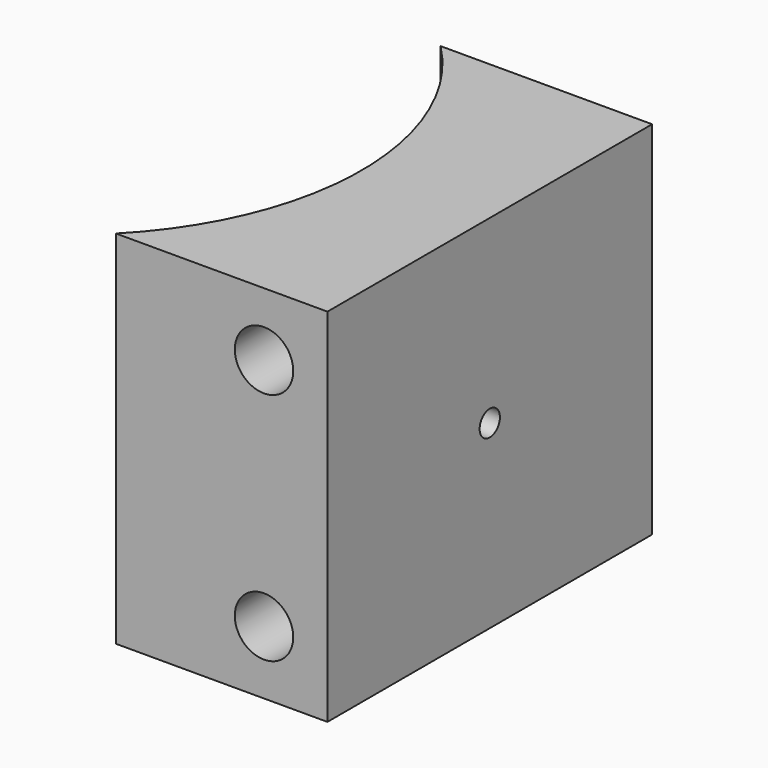
from build123d import *

# Parameters (mm, degrees)
F1_DEPTH = 22.606
F2_R     = 1.8288
F3_DEPTH = 25.4
F4_R     = 0.79375
F5_DEPTH = 9.0530042065


with BuildPart() as f1:
    # F0 (on Top) → F1 (new body)
    with BuildSketch(Plane.XY):
        with BuildLine():
            ThreePointArc((0, 25.4), (5.2044977798, 12.7), (0, 0))
            Line((0, 0), (13.2400867088, 0))
            Line((13.2400867088, 0), (13.2400867088, 25.4))
            Line((13.2400867088, 25.4), (0, 25.4))
        make_face()
    extrude(amount=F1_DEPTH)

    # F2 (on face) → F3 (cut, through all)
    with BuildSketch(Plane(origin=(0, 25.4, 0), x_dir=(-1, 0, 0), z_dir=(0, 1, 0))):
        with Locations((-9.2713367088, 3.96875)):
            Circle(F2_R)
        with Locations((-9.2713367088, 18.63725)):
            Circle(F2_R)
    extrude(amount=-F3_DEPTH, mode=Mode.SUBTRACT)

    # F4 (on face) → F5 (cut, up to face)
    with BuildSketch(Plane.YZ.offset(13.2400867088)):
        with Locations((12.7, 11.303)):
            Circle(F4_R)
    extrude(amount=-F5_DEPTH, mode=Mode.SUBTRACT)


solid = f1.part
